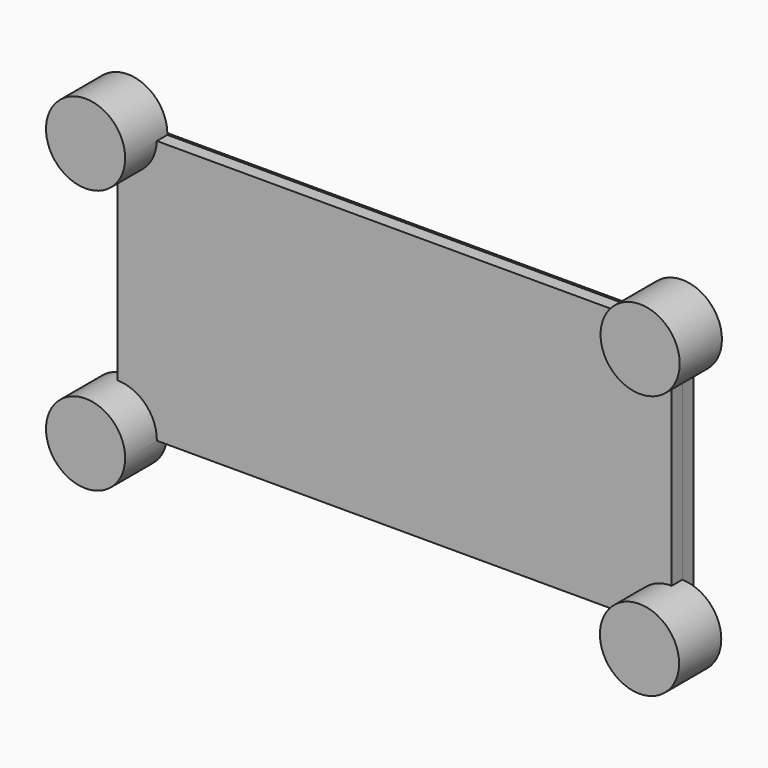
from build123d import *

# Parameters (mm, degrees)
F0_W     = 266.7
F0_H     = 127
F0_W_2   = 228.6
F0_H_2   = 12.7
F2_DEPTH = 6.35
F1_R     = 19.05
F3_DEPTH = 25.4
F4_W     = 267.121822
F4_H     = 123.204811
F5_DEPTH = 6.35


with BuildPart() as f2:
    # F0 (on Front) → F2 (new body)
    with BuildSketch(Plane.XZ):
        Rectangle(F0_W, F0_H)
        Polygon((114.3, -38.1), (114.3, -50.8), (-114.3, -50.8), (-114.3, -38.1), (-114.3, -25.4), (-114.3, -12.7), (-114.3, 0), (-114.3, 12.7), (-114.3, 25.4), (-114.3, 38.1), (-114.3, 50.8), (114.3, 50.8), (114.3, 38.1), (114.3, 25.4), (114.3, 12.7), (114.3, 0), (114.3, -12.7), (114.3, -25.4), align=None, mode=Mode.SUBTRACT)
        with Locations((0, -44.45)):
            Rectangle(F0_W_2, F0_H_2)
        with Locations((0, -31.75)):
            Rectangle(F0_W_2, F0_H_2)
        with Locations((0, -19.05)):
            Rectangle(F0_W_2, F0_H_2)
        with Locations((0, -6.35)):
            Rectangle(F0_W_2, F0_H_2)
        with Locations((0, 6.35)):
            Rectangle(F0_W_2, F0_H_2)
        with Locations((0, 19.05)):
            Rectangle(F0_W_2, F0_H_2)
        with Locations((0, 31.75)):
            Rectangle(F0_W_2, F0_H_2)
        with Locations((0, 44.45)):
            Rectangle(F0_W_2, F0_H_2)
    extrude(amount=F2_DEPTH)

    # F1 (on face) → F3 (join)
    with BuildSketch(Plane.XZ):
        with Locations((-133.560911, 63.970305)):
            Circle(F1_R)
        with Locations((133.389249, 63.660257)):
            Circle(F1_R)
        with Locations((133.079201, -63.458867)):
            Circle(F1_R)
        with Locations((-133.560911, -63.148819)):
            Circle(F1_R)
    extrude(amount=F3_DEPTH)

    # F4 (on face) → F5 (join)
    with BuildSketch(Plane(origin=(0, 0, 0), x_dir=(-1, 0, 0), z_dir=(0, 1, 0))):
        with Locations((0, -1.546413)):
            Rectangle(F4_W, F4_H)
    extrude(amount=F5_DEPTH)


solid = f2.part
